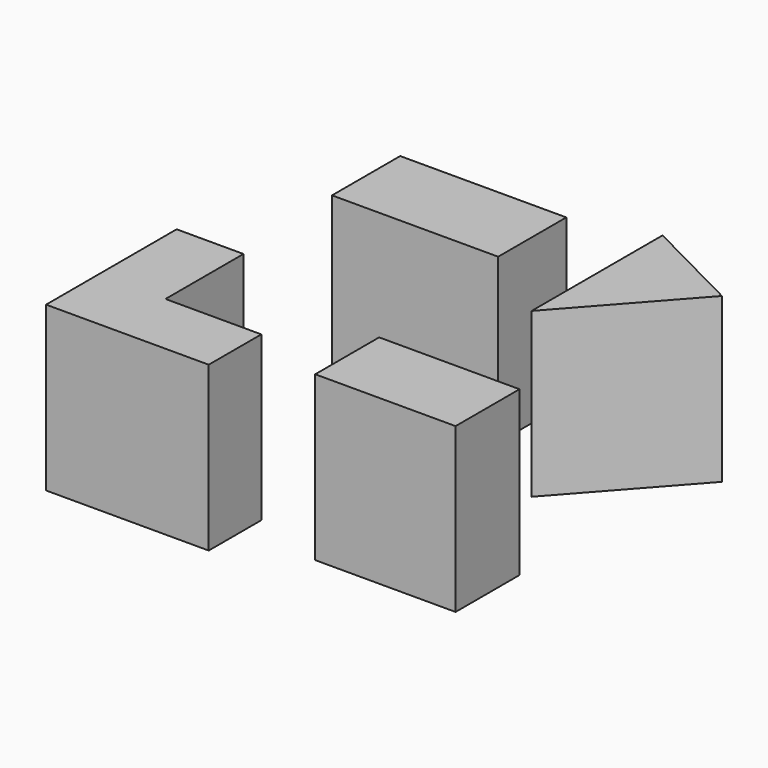
from build123d import *

# Parameters (mm, degrees)
F3_DEPTH = 60
F4_DEPTH = 60
F0_W     = 60.917996
F0_H     = 31.230113
F5_DEPTH = 60
F6_W     = 51.471852
F6_H     = 29.302327
F7_DEPTH = 60


with BuildPart() as f3:
    # F1 (on face) → F3 (new body)
    with BuildSketch(Plane.XY):
        Polygon((72.560265, 50.42011), (35.803657, 69.157153), (35.803657, 9.157153), align=None)
    extrude(amount=F3_DEPTH)


with BuildPart() as f4:
    # F2 (on Top) → F4 (new body)
    with BuildSketch(Plane.XY):
        Polygon((-75.199924, -14.825164), (-75.199924, -74.667974), (-15.561358, -74.667974), (-15.561358, -50.567455), (-50.690927, -50.567455), (-50.690927, -14.825164), align=None)
    extrude(amount=F4_DEPTH)


with BuildPart() as f5:
    # F0 (on Top) → F5 (new body)
    with BuildSketch(Plane.XY):
        with Locations((-23.133416, 45.013771)):
            Rectangle(F0_W, F0_H)
    extrude(amount=F5_DEPTH)


with BuildPart() as f7:
    # F6 (on Top) → F7 (new body)
    with BuildSketch(Plane.XY):
        with Locations((37.688192, -45.592107)):
            Rectangle(F6_W, F6_H)
    extrude(amount=F7_DEPTH)


solid = Compound([f3.part, f4.part, f5.part, f7.part])
